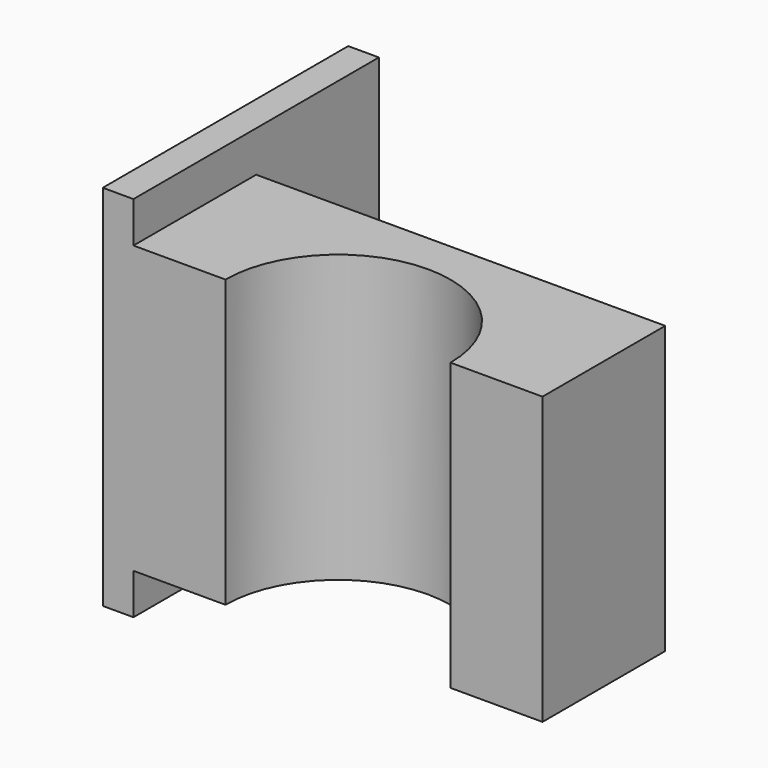
from build123d import *

# Parameters (mm, degrees)
PAD_DEPTH    = 28
SKETCH001_W  = 30
SKETCH001_H  = 36
PAD001_DEPTH = 3
SKETCH002_R  = 2.5
PAD002_DEPTH = 4


with BuildPart() as part:
    # Sketch → Pad (new body)
    with BuildSketch(Plane.XY):
        with BuildLine():
            Line((-20, 15), (20, 15))
            Line((20, 15), (20, 0))
            Line((20, 0), (11, -2.2e-05))
            ThreePointArc((11, -2.2e-05), (1.1e-05, 11), (-11, 0))
            Line((-11, 0), (-20, 0))
            Line((-20, 0), (-20, 15))
        make_face()
    extrude(amount=PAD_DEPTH)

    # Sketch001 (on Face6 of Pad) → Pad001 (join)
    with BuildSketch(Plane(origin=(-20, 0, 0), x_dir=(0, -1, 0), z_dir=(-1, 0, 0))):
        with Locations((-15, 14)):
            Rectangle(SKETCH001_W, SKETCH001_H)
    extrude(amount=PAD001_DEPTH)

    # Sketch002 (on Face5 of Pad001) → Pad002 (join)
    with BuildSketch(Plane(origin=(-23, 0, 0), x_dir=(0, -1, 0), z_dir=(-1, 0, 0))):
        with Locations((-12.5, 14)):
            Circle(SKETCH002_R)
    extrude(amount=PAD002_DEPTH)


solid = part.part
